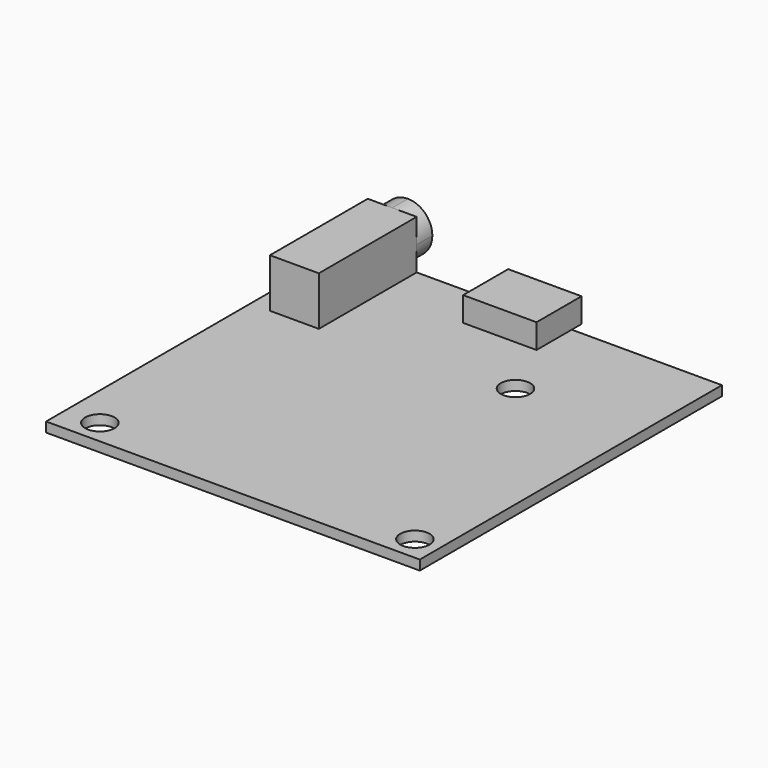
from build123d import *

# Parameters (mm, degrees)
F0_W      = 38.2
F0_H      = 38.6
F0_R      = 1.5
F1_DEPTH  = 1
F2_W      = 7.5
F2_H      = 4.5
F2_H_2    = 1.25
F3_DEPTH  = 2.5
F4_W      = 5
F4_H      = 5
F5_DEPTH  = 1
F6_R      = 1.25
F7_DEPTH  = 0.25
F8_W      = 5
F8_H      = 12.5
F9_DEPTH  = 5
F11_DEPTH = 2


with BuildPart() as f1:
    # F0 (on Top) → F1 (new body)
    with BuildSketch(Plane.XY):
        Rectangle(F0_W, F0_H)
        with Locations((-15.6, -16.8)):
            Circle(F0_R, mode=Mode.SUBTRACT)
        with Locations((16.6, -16.8)):
            Circle(F0_R, mode=Mode.SUBTRACT)
        with Locations((6.6, 8.55)):
            Circle(F0_R, mode=Mode.SUBTRACT)
    extrude(amount=F1_DEPTH)

    # F2 (on face) → F3 (join)
    with BuildSketch(Plane.XY.offset(1)):
        with Locations((0, 17.05)):
            Rectangle(F2_W, F2_H)
        with Locations((0, 19.925)):
            Rectangle(F2_W, F2_H_2)
    extrude(amount=F3_DEPTH)

    # F4 (on face) → F5 (join)
    with BuildSketch(Plane(origin=(0, 0, 0), x_dir=(1, 0, 0), z_dir=(0, 0, -1))):
        with Locations((0, 7.3)):
            Rectangle(F4_W, F4_H)
    extrude(amount=F5_DEPTH)

    # F6 (on face) → F7 (join)
    with BuildSketch(Plane(origin=(0, 0, -1), x_dir=(1, 0, 0), z_dir=(0, 0, -1))):
        with Locations((0, 7.3)):
            Circle(F6_R)
    extrude(amount=F7_DEPTH)

    # F8 (on face) → F9 (join)
    with BuildSketch(Plane.XY.offset(1)):
        with Locations((-14.6, 13.05)):
            Rectangle(F8_W, F8_H)
    extrude(amount=F9_DEPTH)

    # F10 (on face) → F11 (join)
    with BuildSketch(Plane(origin=(0, 19.3, 0), x_dir=(-1, 0, 0), z_dir=(0, 1, 0))):
        with BuildLine():
            ThreePointArc((12.1, 3.5), (14.6, 1), (17.1, 3.5))
            ThreePointArc((17.1, 3.5), (16.367767, 5.267767), (14.6, 6))
            ThreePointArc((14.6, 6), (12.832233, 5.267767), (12.1, 3.5))
        make_face()
    extrude(amount=F11_DEPTH)


solid = f1.part
